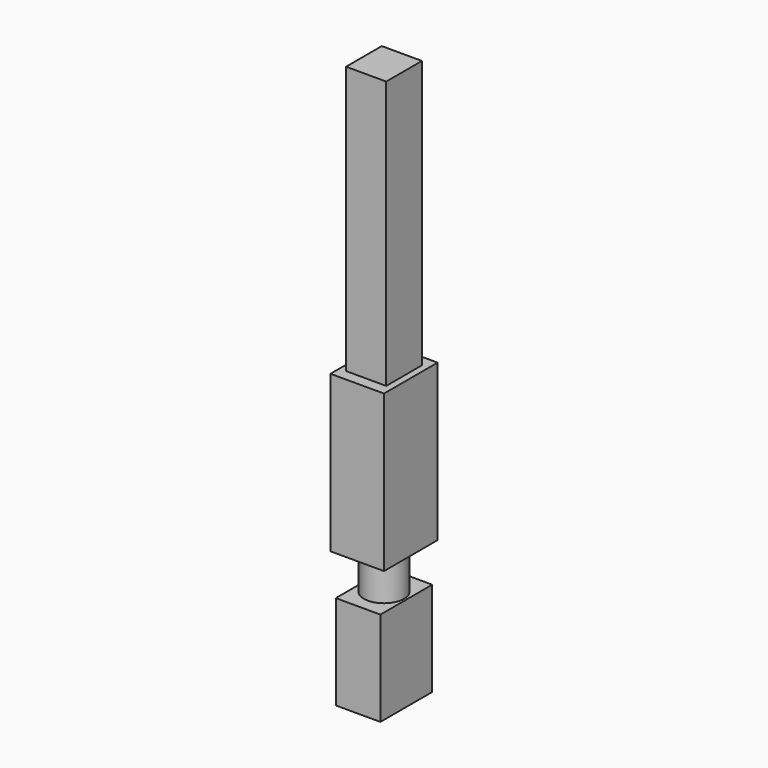
from build123d import *

# Parameters (mm, degrees)
F0_W     = 30.48
F0_H     = 38.1
F1_DEPTH = 88.9
F2_W     = 22.86
F2_H     = 25.4
F3_DEPTH = 152.4
F4_R     = 11.43
F5_DEPTH = 22.86
F6_W     = 36.83582
F6_H     = 53.741386
F7_DEPTH = 12.7
F8_DEPTH = 12.7


with BuildPart() as f1:
    # F0 (on Top) → F1 (new body)
    with BuildSketch(Plane.XY):
        Rectangle(F0_W, F0_H)
        Rectangle(F0_W, F0_H)
    extrude(amount=F1_DEPTH)

    # F2 (on face) → F3 (join)
    with BuildSketch(Plane.XY.offset(88.9)):
        Rectangle(F2_W, F2_H)
    extrude(amount=F3_DEPTH)

    # F4 (on face) → F5 (join)
    with BuildSketch(Plane(origin=(0, 0, 0), x_dir=(1, 0, 0), z_dir=(0, 0, -1))):
        Circle(F4_R)
    extrude(amount=F5_DEPTH)

    # F6 (on Right) → F7 (join)
    with BuildSketch(Plane.YZ):
        with Locations((0, -49.730693)):
            Rectangle(F6_W, F6_H)
    extrude(amount=F7_DEPTH)

    # F6 (on Right) → F8 (join)
    with BuildSketch(Plane.YZ):
        with Locations((0, -49.730693)):
            Rectangle(F6_W, F6_H)
    extrude(amount=-F8_DEPTH)


solid = f1.part
